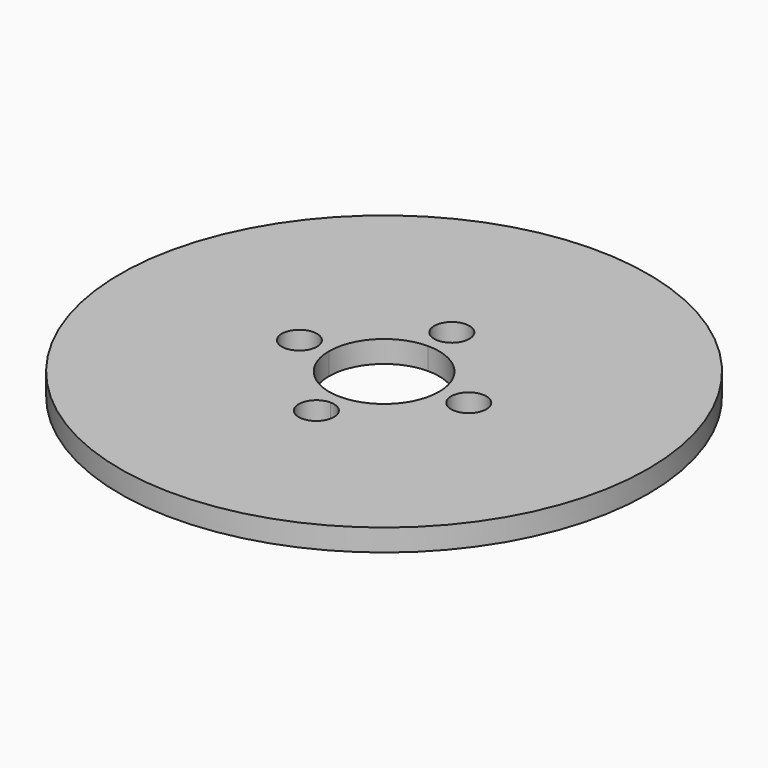
from build123d import *

# Parameters (mm, degrees)
F0_R     = 30.48
F0_R_2   = 2.921
F0_R_3   = 2.032
F1_DEPTH = 2.54
F2_R     = 20.32
F2_R_2   = 17.78
F3_DEPTH = 5.08
F5_DEPTH = 5.08


with BuildPart() as f1:
    # F0 (on Top) → F1 (new body)
    with BuildSketch(Plane.XY):
        Circle(F0_R)
        with BuildLine():
            ThreePointArc((2.921, -9.779), (-2.0654589078, -11.8444589078), (0, -6.858))
            ThreePointArc((0, -6.858), (2.0654589078, -7.7135410922), (2.921, -9.779))
        make_face(mode=Mode.SUBTRACT)
        with Locations((-9.779, 0)):
            Circle(F0_R_2, mode=Mode.SUBTRACT)
        with BuildLine():
            ThreePointArc((0, 6.35), (4.4901280605, 4.4901280605), (6.35, 0))
            ThreePointArc((6.35, 0), (4.4901280605, -4.4901280605), (0, -6.35))
            ThreePointArc((0, -6.35), (-4.4901280605, -4.4901280605), (-6.35, 0))
            ThreePointArc((-6.35, 0), (-4.4901280605, 4.4901280605), (0, 6.35))
        make_face(mode=Mode.SUBTRACT)
        with BuildLine():
            ThreePointArc((12.7, 0), (9.779, -2.921), (6.858, 0))
            ThreePointArc((6.858, 0), (9.779, 2.921), (12.7, 0))
        make_face(mode=Mode.SUBTRACT)
        with BuildLine():
            ThreePointArc((2.921, 9.779), (2.0654589078, 7.7135410922), (0, 6.858))
            ThreePointArc((0, 6.858), (-2.0654589078, 11.8444589078), (2.921, 9.779))
        make_face(mode=Mode.SUBTRACT)
        with BuildLine():
            ThreePointArc((2.921, 9.779), (-2.0654589078, 11.8444589078), (0, 6.858))
            ThreePointArc((0, 6.858), (2.0654589078, 7.7135410922), (2.921, 9.779))
        make_face()
        with BuildLine():
            ThreePointArc((2.032, 9.779), (1.4368409794, 8.3421590206), (0, 7.747))
            ThreePointArc((0, 7.747), (-1.4368409794, 11.2158409794), (2.032, 9.779))
        make_face(mode=Mode.SUBTRACT)
        with Locations((-9.779, 0)):
            Circle(F0_R_2)
        with Locations((-9.779, 0)):
            Circle(F0_R_3, mode=Mode.SUBTRACT)
        with BuildLine():
            ThreePointArc((2.921, -9.779), (2.0654589078, -7.7135410922), (0, -6.858))
            ThreePointArc((0, -6.858), (-2.0654589078, -11.8444589078), (2.921, -9.779))
        make_face()
        with BuildLine():
            ThreePointArc((2.032, -9.779), (-1.4368409794, -11.2158409794), (0, -7.747))
            ThreePointArc((0, -7.747), (1.4368409794, -8.3421590206), (2.032, -9.779))
        make_face(mode=Mode.SUBTRACT)
        with BuildLine():
            ThreePointArc((12.7, 0), (9.779, 2.921), (6.858, 0))
            ThreePointArc((6.858, 0), (9.779, -2.921), (12.7, 0))
        make_face()
        with BuildLine():
            ThreePointArc((11.811, 0), (9.779, -2.032), (7.747, 0))
            ThreePointArc((7.747, 0), (9.779, 2.032), (11.811, 0))
        make_face(mode=Mode.SUBTRACT)
    extrude(amount=F1_DEPTH)

    # F2 (on face) → F3 (join)
    with BuildSketch(Plane(origin=(0, 0, 0), x_dir=(1, 0, 0), z_dir=(0, 0, -1))):
        Circle(F2_R)
        Circle(F2_R_2, mode=Mode.SUBTRACT)
    extrude(amount=F3_DEPTH)

    # F4 (on face) → F5 (cut)
    with BuildSketch(Plane(origin=(0, 0, -5.08), x_dir=(1, 0, 0), z_dir=(0, 0, -1))):
        with BuildLine():
            Line((6.8041114275, 16.4265780881), (7.7761273457, 18.7732321006))
            ThreePointArc((7.7761273457, 18.7732321006), (3.9642353434, 19.9295568978), (0, 20.32))
            Line((0, 20.32), (0, 17.78))
            ThreePointArc((0, 17.78), (3.4687059254, 17.4383622856), (6.8041114275, 16.4265780881))
        make_face()
    extrude(amount=-F5_DEPTH, mode=Mode.SUBTRACT)


solid = f1.part
